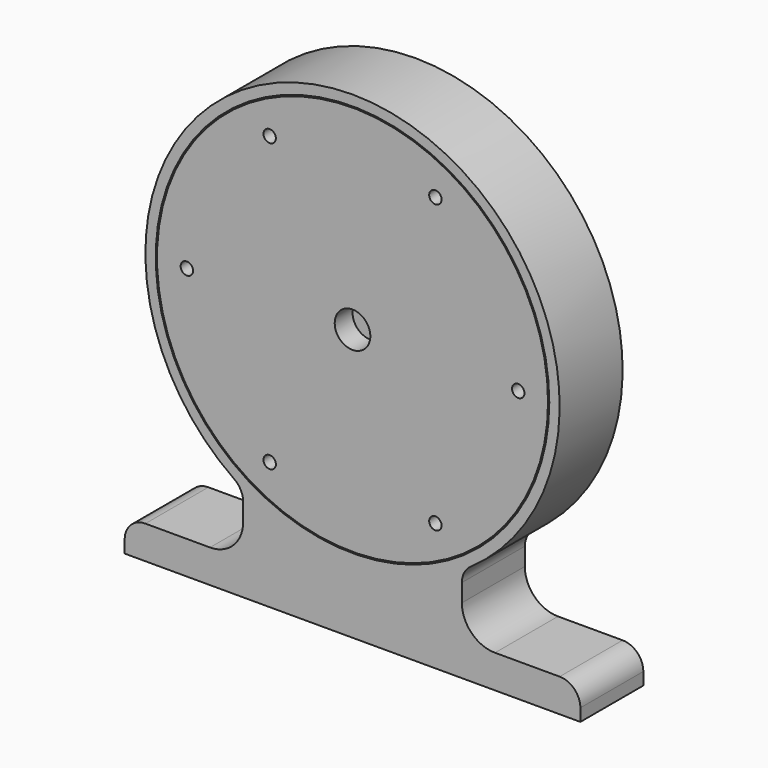
from build123d import *

# Parameters (mm, degrees)
F1_DEPTH  = 19
F2_R      = 47.5
F3_DEPTH  = 5
F4_R      = 42.5
F5_DEPTH  = 9
F6_R      = 4.3
F7_DEPTH  = 4
F8_R      = 4.15
F9_DEPTH  = 5
F10_R     = 7.5
F10_R_2   = 4.3
F10_R_3   = 4.15
F11_DEPTH = 0.4
F12_R     = 47.2
F13_DEPTH = 5
F14_R     = 4.15
F15_DEPTH = 4
F16_R     = 4.3
F17_DEPTH = 5
F18_R     = 7.5
F18_R_2   = 4.3
F18_R_3   = 4.15
F19_DEPTH = 0.4
F20_R     = 1.5
F21_DEPTH = 5
F22_R     = 1.5
F23_DEPTH = 9


with BuildPart() as f1:
    # F0 (on Front) → F1 (new body)
    with BuildSketch(Plane.XZ):
        with BuildLine():
            Line((-55, 0), (0, 0))
            Line((0, 0), (55, 0))
            Line((55, 0), (55, 3))
            ThreePointArc((55, 3), (53.5355339059, 6.5355339059), (50, 8))
            Line((50, 8), (34.3967056002, 8))
            ThreePointArc((34.3967056002, 8), (28.7398513507, 10.3431457505), (26.3967056002, 16))
            Line((26.3967056002, 16), (26.3967056002, 20.3062453617))
            ThreePointArc((26.3967056002, 20.3062453617), (26.9654964075, 22.6223595841), (28.5424596365, 24.411520015))
            ThreePointArc((28.5424596365, 24.411520015), (0, 115.464266548), (-28.5424596365, 24.411520015))
            ThreePointArc((-28.5424596365, 24.411520015), (-26.9654964075, 22.6223595841), (-26.3967056002, 20.3062453617))
            Line((-26.3967056002, 20.3062453617), (-26.3967056002, 16))
            ThreePointArc((-26.3967056002, 16), (-28.7398513507, 10.3431457505), (-34.3967056002, 8))
            Line((-34.3967056002, 8), (-50, 8))
            ThreePointArc((-50, 8), (-53.5355339059, 6.5355339059), (-55, 3))
            Line((-55, 3), (-55, 0))
        make_face()
    extrude(amount=-F1_DEPTH)

    # F2 (on face) → F3 (cut)
    with BuildSketch(Plane.XZ):
        with Locations((0, 65.464266548)):
            Circle(F2_R)
    extrude(amount=-F3_DEPTH, mode=Mode.SUBTRACT)

    # F4 (on face) → F5 (cut)
    with BuildSketch(Plane.XZ.offset(-5)):
        with Locations((0, 65.464266548)):
            Circle(F4_R)
    extrude(amount=-F5_DEPTH, mode=Mode.SUBTRACT)

    # F6 (on face) → F7 (cut)
    with BuildSketch(Plane.XZ.offset(-14)):
        with Locations((0, 65.464266548)):
            Circle(F6_R)
    extrude(amount=-F7_DEPTH, mode=Mode.SUBTRACT)

    # F8 (on face) → F9 (cut, through all)
    with BuildSketch(Plane.XZ.offset(-14)):
        with Locations((0, 94.464266548)):
            Circle(F8_R)
        with Locations((-25.1147367097, 79.964266548)):
            Circle(F8_R)
        with Locations((-25.1147367097, 50.964266548)):
            Circle(F8_R)
        with Locations((0, 36.464266548)):
            Circle(F8_R)
        with Locations((25.1147367097, 50.964266548)):
            Circle(F8_R)
        with Locations((25.1147367097, 79.964266548)):
            Circle(F8_R)
    extrude(amount=-F9_DEPTH, mode=Mode.SUBTRACT)

    # F10 (on face) → F11 (join)
    with BuildSketch(Plane.XZ.offset(-14)):
        with Locations((0, 65.464266548)):
            Circle(F10_R)
        with Locations((0, 65.464266548)):
            Circle(F10_R_2, mode=Mode.SUBTRACT)
        with Locations((0, 94.464266548)):
            Circle(F10_R)
        with Locations((0, 94.464266548)):
            Circle(F10_R_3, mode=Mode.SUBTRACT)
        with Locations((-25.1147367097, 79.964266548)):
            Circle(F10_R)
        with Locations((-25.1147367097, 79.964266548)):
            Circle(F10_R_3, mode=Mode.SUBTRACT)
        with Locations((-25.1147367097, 50.964266548)):
            Circle(F10_R)
        with Locations((-25.1147367097, 50.964266548)):
            Circle(F10_R_3, mode=Mode.SUBTRACT)
        with Locations((0, 36.464266548)):
            Circle(F10_R)
        with Locations((0, 36.464266548)):
            Circle(F10_R_3, mode=Mode.SUBTRACT)
        with Locations((25.1147367097, 50.964266548)):
            Circle(F10_R)
        with Locations((25.1147367097, 50.964266548)):
            Circle(F10_R_3, mode=Mode.SUBTRACT)
        with Locations((25.1147367097, 79.964266548)):
            Circle(F10_R)
        with Locations((25.1147367097, 79.964266548)):
            Circle(F10_R_3, mode=Mode.SUBTRACT)
    extrude(amount=F11_DEPTH)

    # F22 (on face) → F23 (join)
    with BuildSketch(Plane.XZ.offset(-14)):
        with BuildLine():
            ThreePointArc((-28.9431940969, 96.5856661866), (-25.9627050439, 97.7896735205), (-22.9393103022, 96.6978709327))
            ThreePointArc((-22.9393103022, 96.6978709327), (-17.75, 96.2081683823), (-15.5794396978, 100.9470942073))
            ThreePointArc((-15.5794396978, 100.9470942073), (-15.0132711039, 104.1113321532), (-12.4803256399, 106.0905077219))
            ThreePointArc((-12.4803256399, 106.0905077219), (-21.25, 102.2703462088), (-28.9431940969, 96.5856661866))
        make_face()
        with Locations((-20, 100.1052826994)):
            Circle(F22_R, mode=Mode.SUBTRACT)
        with BuildLine():
            ThreePointArc((-41.4235197368, 55.9594250127), (-40.9759761478, 59.1426079152), (-38.51875, 61.2150432734))
            ThreePointArc((-38.51875, 61.2150432734), (-35.5, 65.464266548), (-38.51875, 69.7134898226))
            ThreePointArc((-38.51875, 69.7134898226), (-40.9759761478, 71.7859251808), (-41.4235197368, 74.9691080833))
            ThreePointArc((-41.4235197368, 74.9691080833), (-42.5, 65.464266548), (-41.4235197368, 55.9594250127))
        make_face()
        with Locations((-40, 65.464266548)):
            Circle(F22_R, mode=Mode.SUBTRACT)
        with BuildLine():
            ThreePointArc((-12.4803256399, 24.8380253741), (-15.0132711039, 26.8172009427), (-15.5794396978, 29.9814388887))
            ThreePointArc((-15.5794396978, 29.9814388887), (-17.75, 34.7203647136), (-22.9393103022, 34.2306621633))
            ThreePointArc((-22.9393103022, 34.2306621633), (-25.9627050439, 33.1388595755), (-28.9431940969, 34.3428669094))
            ThreePointArc((-28.9431940969, 34.3428669094), (-21.25, 28.6581868871), (-12.4803256399, 24.8380253741))
        make_face()
        with Locations((-20, 30.8232503966)):
            Circle(F22_R, mode=Mode.SUBTRACT)
        with BuildLine():
            ThreePointArc((28.9431940969, 34.3428669094), (25.9627050439, 33.1388595755), (22.9393103022, 34.2306621633))
            ThreePointArc((22.9393103022, 34.2306621633), (17.75, 34.7203647136), (15.5794396978, 29.9814388887))
            ThreePointArc((15.5794396978, 29.9814388887), (15.0132711039, 26.8172009427), (12.4803256399, 24.8380253741))
            ThreePointArc((12.4803256399, 24.8380253741), (21.25, 28.6581868871), (28.9431940969, 34.3428669094))
        make_face()
        with Locations((20, 30.8232503966)):
            Circle(F22_R, mode=Mode.SUBTRACT)
        with BuildLine():
            ThreePointArc((41.4235197368, 74.9691080833), (40.9759761478, 71.7859251808), (38.51875, 69.7134898226))
            ThreePointArc((38.51875, 69.7134898226), (35.5, 65.464266548), (38.51875, 61.2150432734))
            ThreePointArc((38.51875, 61.2150432734), (40.9759761478, 59.1426079152), (41.4235197368, 55.9594250127))
            ThreePointArc((41.4235197368, 55.9594250127), (42.5, 65.464266548), (41.4235197368, 74.9691080833))
        make_face()
        with Locations((40, 65.464266548)):
            Circle(F22_R, mode=Mode.SUBTRACT)
        with BuildLine():
            ThreePointArc((12.4803256399, 106.0905077219), (15.0132711039, 104.1113321532), (15.5794396978, 100.9470942073))
            ThreePointArc((15.5794396978, 100.9470942073), (17.75, 96.2081683823), (22.9393103022, 96.6978709327))
            ThreePointArc((22.9393103022, 96.6978709327), (25.9627050439, 97.7896735205), (28.9431940969, 96.5856661866))
            ThreePointArc((28.9431940969, 96.5856661866), (21.25, 102.2703462088), (12.4803256399, 106.0905077219))
        make_face()
        with Locations((20, 100.1052826994)):
            Circle(F22_R, mode=Mode.SUBTRACT)
    extrude(amount=F23_DEPTH)


with BuildPart() as f13:
    # F12 (on face) → F13 (new body)
    with BuildSketch(Plane.XZ.offset(-5)):
        with Locations((0, 65.464266548)):
            Circle(F12_R)
    extrude(amount=F13_DEPTH)

    # F14 (on face) → F15 (cut)
    with BuildSketch(Plane(origin=(0, 5, 0), x_dir=(-1, 0, 0), z_dir=(0, 1, 0))):
        with Locations((-25.1147367097, 79.964266548)):
            Circle(F14_R)
        with Locations((0, 94.464266548)):
            Circle(F14_R)
        with Locations((25.1147367097, 79.964266548)):
            Circle(F14_R)
        with Locations((25.1147367097, 50.964266548)):
            Circle(F14_R)
        with Locations((0, 36.464266548)):
            Circle(F14_R)
        with Locations((-25.1147367097, 50.964266548)):
            Circle(F14_R)
    extrude(amount=-F15_DEPTH, mode=Mode.SUBTRACT)

    # F16 (on face) → F17 (cut, through all)
    with BuildSketch(Plane(origin=(0, 5, 0), x_dir=(-1, 0, 0), z_dir=(0, 1, 0))):
        with Locations((0, 65.464266548)):
            Circle(F16_R)
    extrude(amount=-F17_DEPTH, mode=Mode.SUBTRACT)

    # F18 (on face) → F19 (join)
    with BuildSketch(Plane(origin=(0, 5, 0), x_dir=(-1, 0, 0), z_dir=(0, 1, 0))):
        with Locations((0, 65.464266548)):
            Circle(F18_R)
        with Locations((0, 65.464266548)):
            Circle(F18_R_2, mode=Mode.SUBTRACT)
        with Locations((0, 36.464266548)):
            Circle(F18_R)
        with Locations((0, 36.464266548)):
            Circle(F18_R_3, mode=Mode.SUBTRACT)
        with Locations((25.1147367097, 50.964266548)):
            Circle(F18_R)
        with Locations((25.1147367097, 50.964266548)):
            Circle(F18_R_3, mode=Mode.SUBTRACT)
        with Locations((25.1147367097, 79.964266548)):
            Circle(F18_R)
        with Locations((25.1147367097, 79.964266548)):
            Circle(F18_R_3, mode=Mode.SUBTRACT)
        with Locations((0, 94.464266548)):
            Circle(F18_R)
        with Locations((0, 94.464266548)):
            Circle(F18_R_3, mode=Mode.SUBTRACT)
        with Locations((-25.1147367097, 79.964266548)):
            Circle(F18_R)
        with Locations((-25.1147367097, 79.964266548)):
            Circle(F18_R_3, mode=Mode.SUBTRACT)
        with Locations((-25.1147367097, 50.964266548)):
            Circle(F18_R)
        with Locations((-25.1147367097, 50.964266548)):
            Circle(F18_R_3, mode=Mode.SUBTRACT)
    extrude(amount=F19_DEPTH)

    # F20 (on face) → F21 (cut, through all)
    with BuildSketch(Plane(origin=(0, 5, 0), x_dir=(-1, 0, 0), z_dir=(0, 1, 0))):
        with Locations((20, 30.8232503966)):
            Circle(F20_R)
        with Locations((40, 65.464266548)):
            Circle(F20_R)
        with Locations((20, 100.1052826994)):
            Circle(F20_R)
        with Locations((-20, 100.1052826994)):
            Circle(F20_R)
        with Locations((-40, 65.464266548)):
            Circle(F20_R)
        with Locations((-20, 30.8232503966)):
            Circle(F20_R)
    extrude(amount=-F21_DEPTH, mode=Mode.SUBTRACT)


solid = Compound([f1.part, f13.part])
